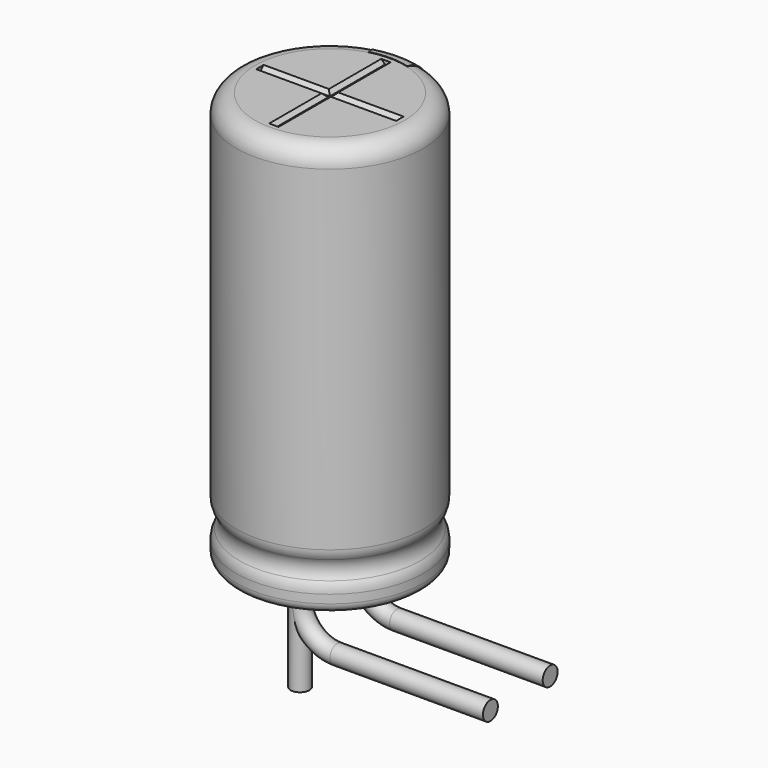
from build123d import *

# Parameters (mm, degrees)
SKETCH010_R         = 0.25
PAD002_DEPTH        = 2.6
REVOLUTION001_ANGLE = -30
SKETCH015_W         = 0.5
SKETCH015_H         = 1
POCKET002_DEPTH     = 2.511
LINEARPATTERN_COUNT = 3
LINEARPATTERN_PITCH = 4
SKETCH012_R         = 2
POCKET_DEPTH        = 0.5
SKETCH003_R         = 0.25
SKETCH013_R         = 2
PAD_DEPTH           = 0.5
POCKET001_DEPTH     = 1.875
POLARPATTERN_COUNT  = 3
POLARPATTERN_ANGLE  = 180


with BuildPart() as obj1:
    # Sketch010 → Pad002 (new body)
    with BuildSketch(Plane(origin=(0, 1, 0), x_dir=(1, 0, 0), z_dir=(0, 0, 1))):
        Circle(SKETCH010_R)
    extrude(amount=-PAD002_DEPTH)


with BuildPart() as obj1_1:
    # Body007 placement: moved
    add(obj1.part.moved(Location((0, -2, 0))))


with BuildPart() as polaritymarking:
    # Sketch005 → Revolution001 (revolve)
    with BuildSketch(Plane(origin=(0, 0, 0), x_dir=(-0.258819, 0.965926, 0), z_dir=(0.965926, 0.258819, 0))):
        with BuildLine():
            Line((2.01, 0.25), (2.01, 11.01))
            ThreePointArc((2.01, 11.01), (2.363553, 10.863553), (2.51, 10.51))
            Line((2.51, 10.51), (2.51, 1.523941))
            ThreePointArc((2.51, 1.523941), (2.489134, 1.381006), (2.428278, 1.25))
            ThreePointArc((2.428278, 1.25), (2.353698, 1), (2.428278, 0.75))
            ThreePointArc((2.428278, 0.75), (2.489134, 0.618994), (2.51, 0.476059))
            Line((2.51, 0.476059), (2.51, 0.25))
            ThreePointArc((2.51, 0.25), (2.26, 0), (2.01, 0.25))
        make_face()
    revolve(axis=Axis((0, 0, 0), (0, 0, 1)), revolution_arc=REVOLUTION001_ANGLE)

    # Sketch015 → Pocket002 (cut, through all)
    with BuildSketch(Plane.XZ):
        with Locations((0, 2)):
            Rectangle(SKETCH015_W, SKETCH015_H)
    pocket002 = extrude(amount=-POCKET002_DEPTH, mode=Mode.SUBTRACT)

    # LinearPattern: Pocket002 ×3
    with Locations(*[(0, 0, i * LINEARPATTERN_PITCH) for i in range(1, LINEARPATTERN_COUNT)]):
        add(pocket002, mode=Mode.SUBTRACT)


with BuildPart() as housing:
    # Sketch → Revolution (revolve)
    with BuildSketch(Plane.XZ):
        with BuildLine():
            Line((0, 11), (2, 11))
            ThreePointArc((2.5, 10.5), (2.353553, 10.853553), (2, 11))
            Line((2.5, 10.5), (2.5, 1.523941))
            ThreePointArc((2.418278, 1.25), (2.479134, 1.381006), (2.5, 1.523941))
            ThreePointArc((2.418278, 1.25), (2.343698, 1), (2.418278, 0.75))
            ThreePointArc((2.5, 0.476059), (2.479134, 0.618994), (2.418278, 0.75))
            Line((2.5, 0.476059), (2.5, 0.25))
            ThreePointArc((2.25, 0), (2.426777, 0.073223), (2.5, 0.25))
            Line((0, 0), (2.25, 0))
            Line((0, 11), (0, 0))
        make_face()
    revolve(axis=Axis((0, 0, 0), (0, 0, 1)))

    # Sketch012 → Pocket (cut)
    with BuildSketch(Plane.XY.offset(11)):
        Circle(SKETCH012_R)
    extrude(amount=-POCKET_DEPTH, mode=Mode.SUBTRACT)


with BuildPart() as obj2:
    # AdditivePipe: sweep along a path in Sketch004
    with BuildLine(Plane.XZ) as additivepipe_path:
        Line((0, 0), (0, -0.5))
        ThreePointArc((0, -0.5), (0.292893, -1.207107), (1, -1.5))
        Line((1, -1.5), (5.1, -1.5))
    # Sketch003 (on ShapeBinder) → AdditivePipe (sweep)
    with BuildSketch(Plane(origin=(0, 0, 0), x_dir=(1, 0, 0), z_dir=(0, 0, -1))):
        with Locations((0, 1)):
            Circle(SKETCH003_R)
    sweep(path=additivepipe_path.line)


with BuildPart() as obj3:
    # Body003 base: copy of obj2
    add(obj2.part)


with BuildPart() as obj3_1:
    # Body003 placement: moved
    add(obj3.part.moved(Location((0, 2, 0))))


with BuildPart() as fusion:
    # Sketch013 (on ShapeBinder) → Pad (new body)
    with BuildSketch(Plane.XY.offset(10.5)):
        Circle(SKETCH013_R)
    extrude(amount=PAD_DEPTH)

    # Sketch014 → Pocket001 (cut, symmetric)
    with BuildSketch(Plane.XZ):
        Polygon((-0.125, 11), (0.125, 11), (0.025, 10.9), (-0.025, 10.9), align=None)
    pocket001 = extrude(amount=POCKET001_DEPTH, both=True, mode=Mode.SUBTRACT)

    # PolarPattern: Pocket001 ×3 about axis
    polarpattern_axis = Axis((0, 0, 0), (0, 0, 1))
    for i in range(1, POLARPATTERN_COUNT):
        add(pocket001.rotate(polarpattern_axis, i * POLARPATTERN_ANGLE / (POLARPATTERN_COUNT - 1)), mode=Mode.SUBTRACT)

    # Fusion: union PolarityMarking, Housing, obj3, obj2
    add(polaritymarking.part)
    add(housing.part)
    add(obj3_1.part)
    add(obj2.part)


solid = Compound([obj1_1.part, fusion.part])
